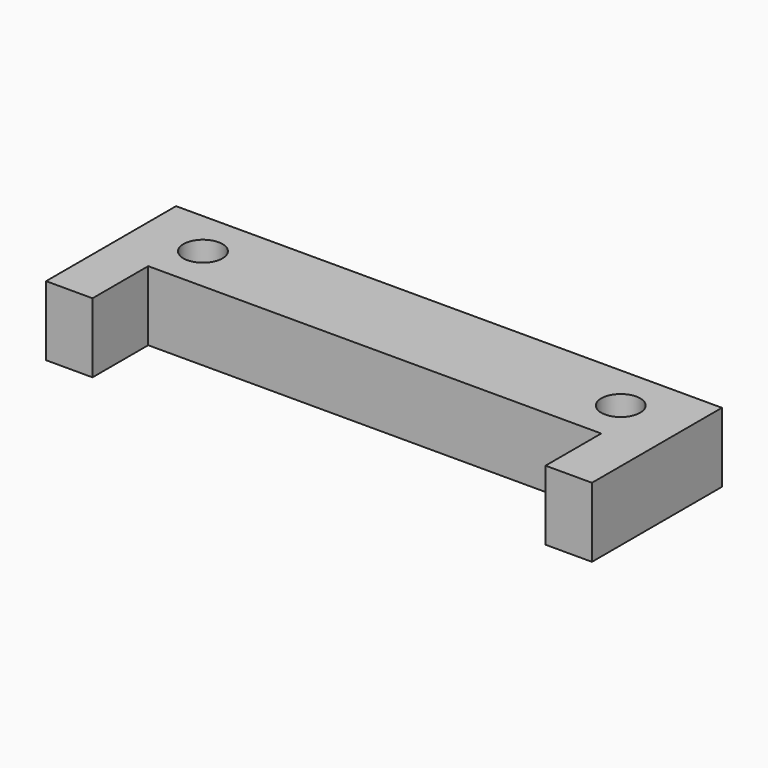
from build123d import *

# Parameters (mm, degrees)
PAD_DEPTH    = 15
SKETCH001_R  = 4.2
POCKET_DEPTH = 54


with BuildPart() as part:
    # Sketch → Pad (new body)
    with BuildSketch(Plane.XY):
        Polygon((-58.8, 0), (-58.8, -35), (-48.8, -35), (-48.8, -20), (48.8, -20), (48.8, -35), (58.8, -35), (58.8, 0), align=None)
    extrude(amount=PAD_DEPTH)

    # Sketch001 → Pocket (cut)
    with BuildSketch(Plane.XY.offset(15)):
        with Locations((-45, -10)):
            Circle(SKETCH001_R)
        with Locations((45, -10)):
            Circle(SKETCH001_R)
    extrude(amount=-POCKET_DEPTH, mode=Mode.SUBTRACT)


solid = part.part
